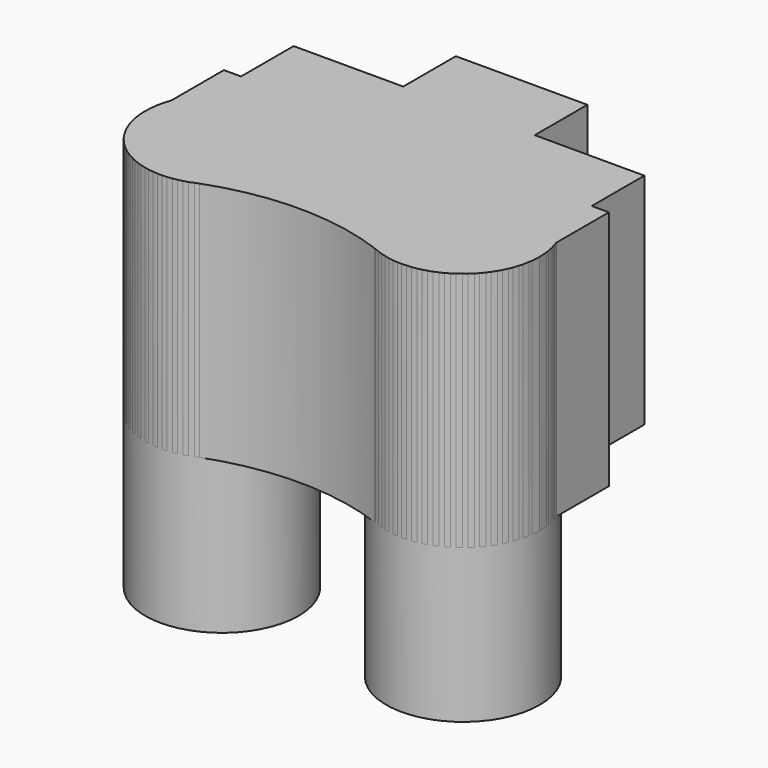
from build123d import *

# Parameters (mm, degrees)
F0_R     = 22.225
F1_DEPTH = 114.3
F4_DEPTH = 69.85
F6_DEPTH = 19.05
F7_W     = 38.1
F7_H     = 38.1
F8_DEPTH = 19.05


with BuildPart() as f1:
    # F0 (on Top) → F1 (new body)
    with BuildSketch(Plane.XY):
        Circle(F0_R)
    extrude(amount=F1_DEPTH)


with BuildPart() as f1b:
    # F0 (on Top) → F1, piece 2 (new body)
    with BuildSketch(Plane.XY):
        with Locations((69.85, 0)):
            Circle(F0_R)
    extrude(amount=F1_DEPTH)


with BuildPart() as f4:
    # F3 (on offset) → F4 (new body, through all)
    with BuildSketch(Plane.XY.offset(44.45)):
        with BuildLine():
            Line((20.8395966464, 7.7241074963), (-20.8395966464, 7.7241074963))
            ThreePointArc((-20.8395966464, 7.7241074963), (-15.0092825083, -16.3912191001), (9.525, -20.0804631421))
            ThreePointArc((9.525, -20.0804631421), (18.7835533113, -11.879762203), (22.225, 0))
            ThreePointArc((22.225, 0), (21.8759075294, 3.923683826), (20.8395966464, 7.7241074963))
        make_face()
        with BuildLine():
            Line((-20.8395966464, 26.7741074963), (-20.8395966464, 7.7241074963))
            ThreePointArc((-20.8395966464, 7.7241074963), (0, 22.225), (20.8395966464, 7.7241074963))
            Line((20.8395966464, 7.7241074963), (49.0104033536, 7.7241074963))
            ThreePointArc((49.0104033536, 7.7241074963), (69.85, 22.225), (90.6895966464, 7.7241074963))
            Line((90.6895966464, 7.7241074963), (90.6895966464, 26.7741074963))
            Line((90.6895966464, 26.7741074963), (-20.8395966464, 26.7741074963))
        make_face()
        with BuildLine():
            ThreePointArc((20.8395966464, 7.7241074963), (0, 22.225), (-20.8395966464, 7.7241074963))
            Line((-20.8395966464, 7.7241074963), (20.8395966464, 7.7241074963))
        make_face()
        with BuildLine():
            ThreePointArc((22.225, 0), (18.7835533113, -11.879762203), (9.525, -20.0804631421))
            ThreePointArc((9.525, -20.0804631421), (34.925, -15.5200042919), (60.325, -20.0804631421))
            ThreePointArc((60.325, -20.0804631421), (49.2641864511, -8.3770463488), (49.0104033536, 7.7241074963))
            Line((49.0104033536, 7.7241074963), (20.8395966464, 7.7241074963))
            ThreePointArc((20.8395966464, 7.7241074963), (21.8759075294, 3.923683826), (22.225, 0))
        make_face()
        with BuildLine():
            ThreePointArc((49.0104033536, 7.7241074963), (49.2641864511, -8.3770463488), (60.325, -20.0804631421))
            ThreePointArc((60.325, -20.0804631421), (81.729762203, -18.7835533113), (92.075, 0))
            ThreePointArc((92.075, 0), (91.7259075294, 3.923683826), (90.6895966464, 7.7241074963))
            Line((90.6895966464, 7.7241074963), (49.0104033536, 7.7241074963))
        make_face()
        with BuildLine():
            ThreePointArc((90.6895966464, 7.7241074963), (69.85, 22.225), (49.0104033536, 7.7241074963))
            Line((49.0104033536, 7.7241074963), (90.6895966464, 7.7241074963))
        make_face()
    extrude(amount=F4_DEPTH)

    # F5 (on face) → F6 (join)
    with BuildSketch(Plane(origin=(0, 26.7741074963, 0), x_dir=(-1, 0, 0), z_dir=(0, 1, 0))):
        Polygon((-85.725, 114.3), (-85.725, 50.8), (-34.925, 50.8), (-34.925, 76.2), (-34.925, 114.3), align=None)
        Polygon((-34.925, 76.2), (-34.925, 50.8), (15.875, 50.8), (15.875, 114.3), (-34.925, 114.3), align=None)
    extrude(amount=F6_DEPTH)

    # F7 (on face) → F8 (join)
    with BuildSketch(Plane(origin=(0, 45.8241074963, 0), x_dir=(-1, 0, 0), z_dir=(0, 1, 0))):
        with Locations((-34.925, 95.25)):
            Rectangle(F7_W, F7_H)
        with BuildLine():
            Line((-15.875, 76.2), (-53.975, 76.2))
            ThreePointArc((-53.975, 76.2), (-34.925, 57.15), (-15.875, 76.2))
        make_face()
    extrude(amount=F8_DEPTH)


solid = Compound([f1.part, f1b.part, f4.part])
